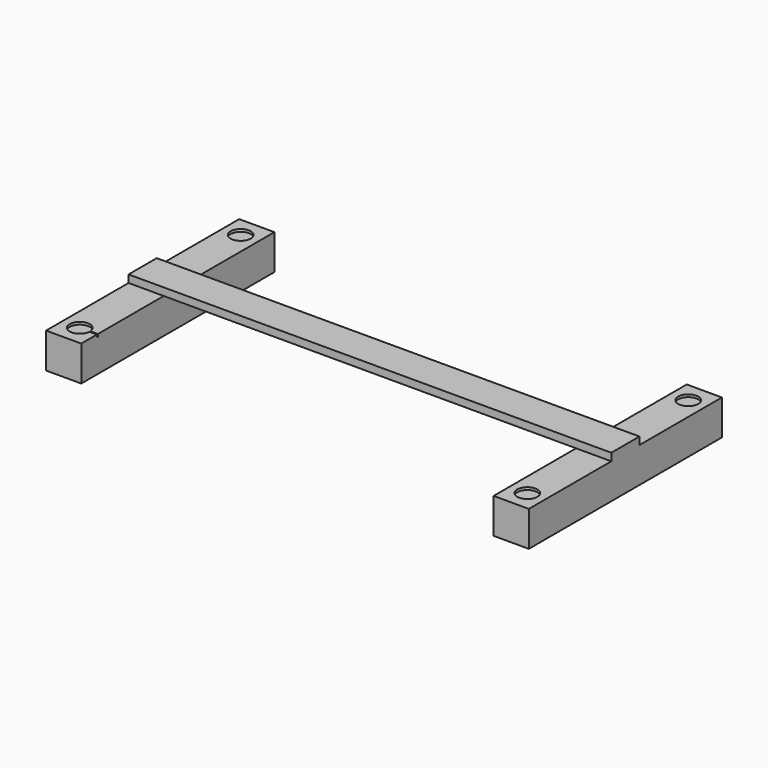
from build123d import *

# Parameters (mm, degrees)
F0_W     = 1219.2
F0_H     = 88.9
F1_DEPTH = 19.05
F2_W     = 88.9
F2_H     = 609.6
F3_DEPTH = 88.9
F4_W     = 88.9
F4_H     = 609.6
F5_DEPTH = 88.9
F6_R     = 12.7
F7_DEPTH = 9.525
F8_R     = 25.4
F9_DEPTH = 6.35


with BuildPart() as f1:
    # F0 (on Top) → F1 (new body)
    with BuildSketch(Plane.XY):
        Rectangle(F0_W, F0_H)
        Rectangle(F0_W, F0_H)
    extrude(amount=F1_DEPTH)

    # F2 (on face) → F3 (join)
    with BuildSketch(Plane(origin=(0, 0, 0), x_dir=(1, 0, 0), z_dir=(0, 0, -1))):
        with Locations((-565.15, 0)):
            Rectangle(F2_W, F2_H)
    extrude(amount=F3_DEPTH)

    # F4 (on face) → F5 (join)
    with BuildSketch(Plane(origin=(0, 0, 0), x_dir=(1, 0, 0), z_dir=(0, 0, -1))):
        with Locations((565.15, 0)):
            Rectangle(F4_W, F4_H)
    extrude(amount=F5_DEPTH)

    # F6 (on face) → F7 (join)
    with BuildSketch(Plane(origin=(0, 0, -88.9), x_dir=(1, 0, 0), z_dir=(0, 0, -1))):
        with Locations((-565.15, 254)):
            Circle(F6_R)
        with Locations((-565.15, -254)):
            Circle(F6_R)
        with Locations((564.726949, 261.87405)):
            Circle(F6_R)
        with Locations((566.567481, -250.361617)):
            Circle(F6_R)
    extrude(amount=F7_DEPTH)

    # F8 (on face) → F9 (cut)
    with BuildSketch(Plane.XY):
        with BuildLine():
            ThreePointArc((-539.799658, -255.5875), (-539.762418, -254.794138), (-539.75, -254))
            ThreePointArc((-539.75, -254), (-539.762418, -253.205862), (-539.799658, -252.4125))
            ThreePointArc((-539.799658, -252.4125), (-590.55, -254), (-539.799658, -255.5875))
        make_face()
        with Locations((-565.15, 254)):
            Circle(F8_R)
        with Locations((565.15, 254)):
            Circle(F8_R)
        with Locations((565.15, -254)):
            Circle(F8_R)
        with BuildLine():
            ThreePointArc((-539.799658, -252.4125), (-539.762418, -253.205862), (-539.75, -254))
            ThreePointArc((-539.75, -254), (-539.762418, -254.794138), (-539.799658, -255.5875))
            Line((-539.799658, -255.5875), (-520.7, -255.5875))
            Line((-520.7, -255.5875), (-520.7, -254))
            Line((-520.7, -254), (-520.7, -252.4125))
            Line((-520.7, -252.4125), (-539.799658, -252.4125))
        make_face()
    extrude(amount=-F9_DEPTH, mode=Mode.SUBTRACT)


solid = f1.part
